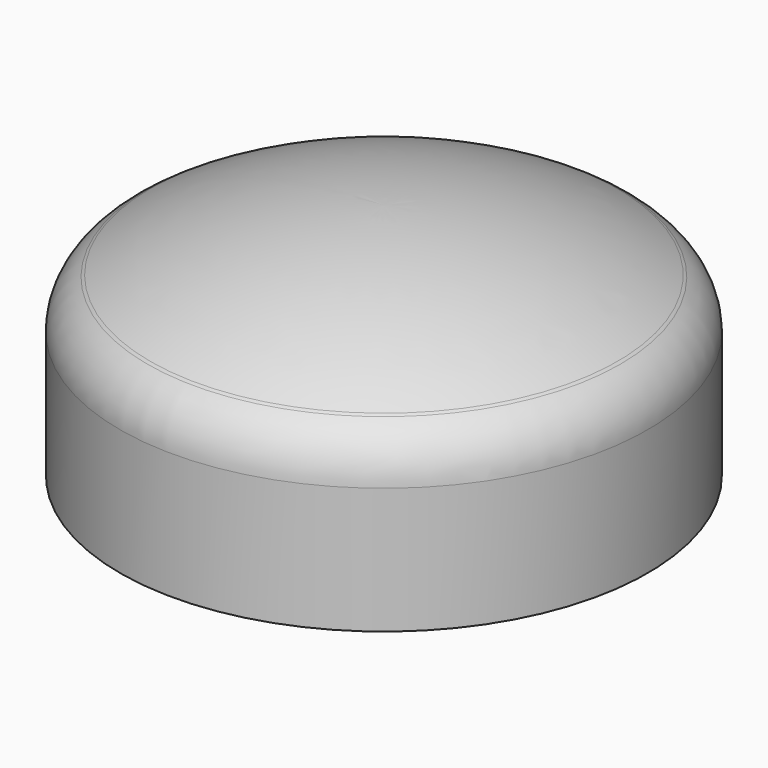
from build123d import *


with BuildPart() as f1:
    # F0 (on Front) → F1 (revolve)
    with BuildSketch(Plane.XZ):
        with BuildLine():
            ThreePointArc((-227.612872, 46.915095), (-246.950636, 26.913318), (-254, 0))
            Line((-254, 0), (-254, -121.4))
            Line((-254, -121.4), (-232.91, -121.412))
            Line((-232.91, -121.412), (-232.91, 0))
            ThreePointArc((-232.91, 0), (-230.824328, 8.029766), (-225.094589, 14.029537))
            ThreePointArc((-225.094589, 14.029537), (-117.012408, 61.741842), (0, 78.061098))
            Line((0, 78.061098), (0, 107.6))
            ThreePointArc((0, 107.6), (-116.274594, 92.567455), (-224.903069, 48.458349))
            ThreePointArc((-224.903069, 48.458349), (-226.259286, 47.689033), (-227.612872, 46.915095))
        make_face()
        with BuildLine():
            ThreePointArc((-224.903069, 48.458349), (-226.26893, 47.705967), (-227.612872, 46.915095))
            ThreePointArc((-227.612872, 46.915095), (-226.259286, 47.689033), (-224.903069, 48.458349))
        make_face()
    revolve(axis=Axis((0, 0, -7.412156), (0, 0, -1)))


solid = f1.part
